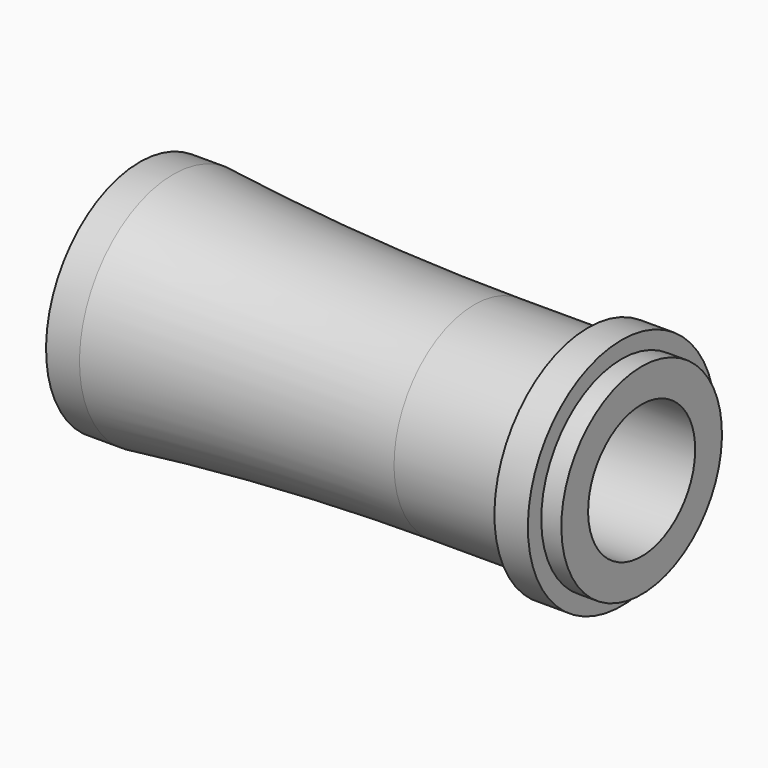
from build123d import *


with BuildPart() as f1:
    # F0 (on Front) → F1 (revolve)
    with BuildSketch(Plane.XZ):
        with BuildLine():
            Line((0, 17.5), (0, 0))
            Line((0, 0), (60, 0))
            Line((60, 0), (60, 10))
            Line((60, 10), (75, 10))
            Line((75, 10), (75, 15))
            Line((75, 15), (72, 15))
            Line((72, 15), (72, 17.5))
            Line((72, 17.5), (67, 17.5))
            Line((67, 17.5), (67, 15))
            Line((67, 15), (50, 15))
            ThreePointArc((50, 15), (27.465305, 15.625482), (5, 17.5))
            Line((5, 17.5), (0, 17.5))
        make_face()
    revolve(axis=Axis((30, 0, 0), (1, 0, 0)))


solid = f1.part
